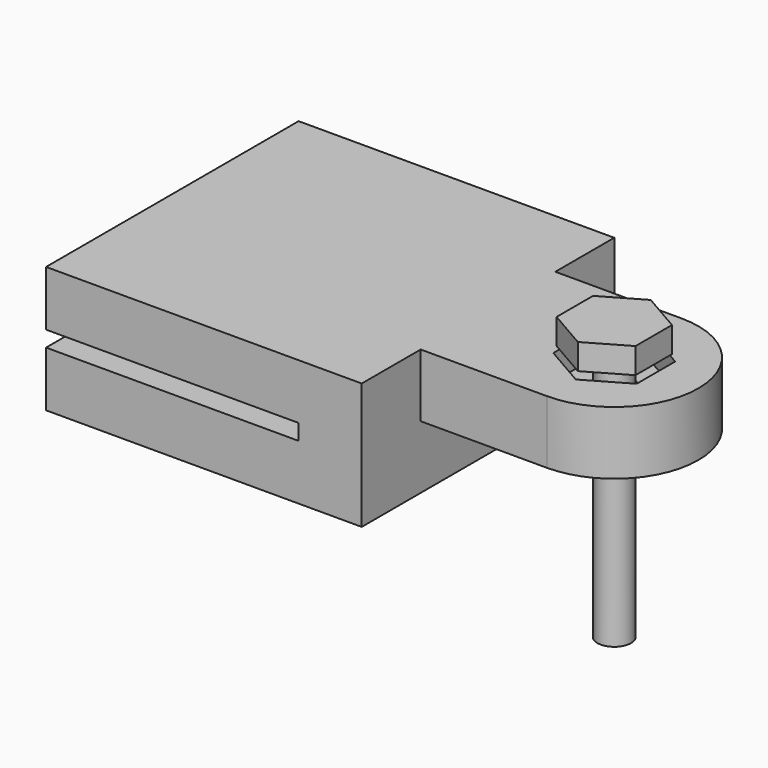
from build123d import *

# Parameters (mm, degrees)
F1_DEPTH = 6.35
F2_DEPTH = 6.35
F0_R     = 1.905
F3_DEPTH = 3.81
F4_W     = 25.4
F4_H     = 0.79375
F5_DEPTH = 31.751
F7_R     = 1.68671875
F8_DEPTH = 25.4
F9_DEPTH = 2.5796875


with BuildPart() as f1:
    # F0 (on Top) → F1 (new body, symmetric)
    with BuildSketch(Plane.XY):
        Polygon((31.75, 31.75), (0, 31.75), (0, 0), (31.75, 0), (31.75, 7.4083333333), (31.75, 24.3416666667), align=None)
    extrude(amount=F1_DEPTH, both=True)

    # F0 (on Top) → F2 (join)
    with BuildSketch(Plane.XY):
        with BuildLine():
            Line((44.45, 24.3416666667), (31.75, 24.3416666667))
            Line((31.75, 24.3416666667), (31.75, 7.4083333333))
            Line((31.75, 7.4083333333), (44.45, 7.4083333333))
            ThreePointArc((44.45, 7.4083333333), (52.9166666667, 15.875), (44.45, 24.3416666667))
        make_face()
        Polygon((44.45, 20.7143499563), (48.641, 18.2946749782), (48.641, 13.4553250218), (44.45, 11.0356500437), (40.259, 13.4553250218), (40.259, 18.2946749782), align=None, mode=Mode.SUBTRACT)
        with BuildLine():
            Line((44.45, 24.3416666667), (31.75, 24.3416666667))
            Line((31.75, 24.3416666667), (31.75, 7.4083333333))
            Line((31.75, 7.4083333333), (44.45, 7.4083333333))
            ThreePointArc((44.45, 7.4083333333), (52.9166666667, 15.875), (44.45, 24.3416666667))
        make_face()
        Polygon((44.45, 20.7143499563), (48.641, 18.2946749782), (48.641, 13.4553250218), (44.45, 11.0356500437), (40.259, 13.4553250218), (40.259, 18.2946749782), align=None, mode=Mode.SUBTRACT)
        with BuildLine():
            Line((44.45, 24.3416666667), (31.75, 24.3416666667))
            Line((31.75, 24.3416666667), (31.75, 7.4083333333))
            Line((31.75, 7.4083333333), (44.45, 7.4083333333))
            ThreePointArc((44.45, 7.4083333333), (52.9166666667, 15.875), (44.45, 24.3416666667))
        make_face()
        Polygon((44.45, 20.7143499563), (48.641, 18.2946749782), (48.641, 13.4553250218), (44.45, 11.0356500437), (40.259, 13.4553250218), (40.259, 18.2946749782), align=None, mode=Mode.SUBTRACT)
    extrude(amount=F2_DEPTH)

    # F0 (on Top) → F3 (join)
    with BuildSketch(Plane.XY):
        Polygon((48.641, 13.4553250218), (48.641, 18.2946749782), (44.45, 20.7143499563), (40.259, 18.2946749782), (40.259, 13.4553250218), (44.45, 11.0356500437), align=None)
        with Locations((44.45, 15.875)):
            Circle(F0_R, mode=Mode.SUBTRACT)
        Polygon((48.641, 13.4553250218), (48.641, 18.2946749782), (44.45, 20.7143499563), (40.259, 18.2946749782), (40.259, 13.4553250218), (44.45, 11.0356500437), align=None)
        with Locations((44.45, 15.875)):
            Circle(F0_R, mode=Mode.SUBTRACT)
    extrude(amount=F3_DEPTH)

    # F4 (on face) → F5 (cut, through all)
    with BuildSketch(Plane(origin=(0, 31.75, 0), x_dir=(-1, 0, 0), z_dir=(0, 1, 0))):
        with Locations((-12.7, 0.396875)):
            Rectangle(F4_W, F4_H)
        with Locations((-12.7, -0.396875)):
            Rectangle(F4_W, F4_H)
    extrude(amount=-F5_DEPTH, mode=Mode.SUBTRACT)


with BuildPart() as f8:
    # F7 (on offset) → F8 (new body)
    with BuildSketch(Plane.XY.offset(6.985)):
        with Locations((44.45, 15.875)):
            Circle(F7_R)
    extrude(amount=-F8_DEPTH)

    # F7 (on offset) → F9 (join)
    with BuildSketch(Plane.XY.offset(6.985)):
        Polygon((48.41875, 13.5836411192), (48.41875, 18.1663588808), (44.45, 20.4577177617), (40.48125, 18.1663588808), (40.48125, 13.5836411192), (44.45, 11.2922822383), align=None)
        with Locations((44.45, 15.875)):
            Circle(F7_R, mode=Mode.SUBTRACT)
        with Locations((44.45, 15.875)):
            Circle(F7_R)
    extrude(amount=F9_DEPTH)


solid = Compound([f1.part, f8.part])
